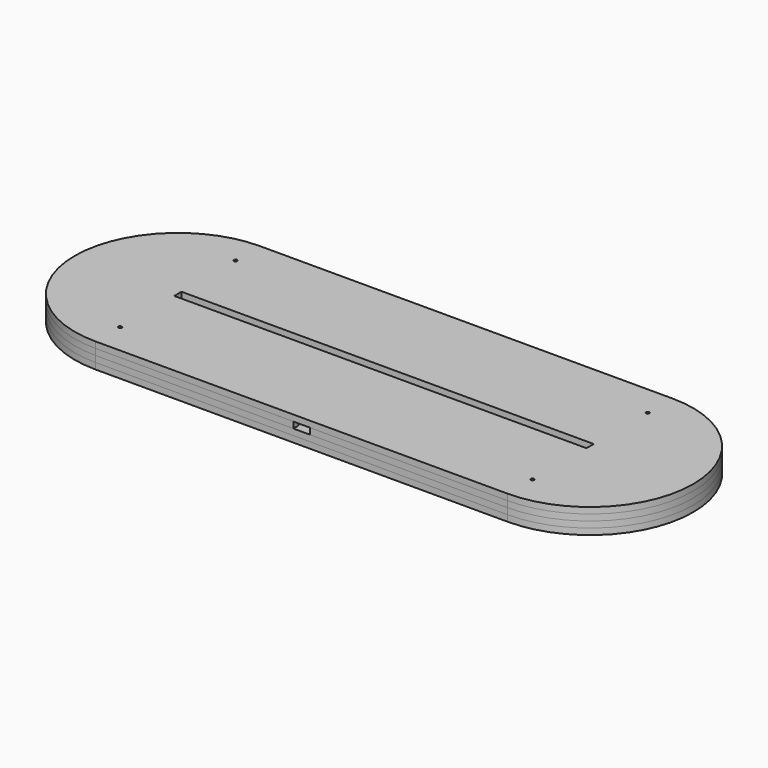
from build123d import *

# Parameters (mm, degrees)
BOX_BOTTOM_HALF_1_W     = 301.98633
BOX_BOTTOM_HALF_1_H     = 102
BOX_BOTTOM_HALF_1_DEPTH = 4
BOX_BOTTOM_HALF_0_W     = 301.98633
BOX_BOTTOM_HALF_0_H     = 102
BOX_BOTTOM_HALF_0_DEPTH = 7
PAD_DEPTH               = 3
PAD001_DEPTH            = 3
SKETCH002_W             = 209.08447
SKETCH002_H             = 4.18
PAD002_DEPTH            = 3
SKETCH003_W             = 26.3
SKETCH003_H             = 34.2
POCKET_DEPTH            = 3
SKETCH004_W             = 18
SKETCH004_H             = 25
POCKET001_DEPTH         = 3
SKETCH005_W             = 14
SKETCH005_H             = 5
POCKET002_DEPTH         = 6
SKETCH006_W             = 14
SKETCH006_H             = 3
POCKET003_DEPTH         = 3
SKETCH007_W             = 8
SKETCH007_H             = 3
POCKET004_DEPTH         = 3
SKETCH008_W             = 200
SKETCH008_H             = 4.4
PAD003_DEPTH            = 3
SKETCH009_R             = 0.8
POCKET005_DEPTH         = 12
BOX_BOTTOM_HALF_2_W     = 301.98633
BOX_BOTTOM_HALF_2_H     = 102
BOX_BOTTOM_HALF_2_DEPTH = 4


with BuildPart() as box_bottom_half_1_body:
    # box_bottom_half_1 → box_bottom_half_1 (new body)
    with BuildSketch(Plane(origin=(-150.993165, -51, -1), x_dir=(1, 0, 0), z_dir=(0, 0, 1))):
        with Locations((150.993165, 51)):
            Rectangle(BOX_BOTTOM_HALF_1_W, BOX_BOTTOM_HALF_1_H)
    extrude(amount=BOX_BOTTOM_HALF_1_DEPTH)


with BuildPart() as box_bottom_half_0_body:
    # box_bottom_half_0 → box_bottom_half_0 (new body)
    with BuildSketch(Plane(origin=(-150.993165, -51, -1), x_dir=(1, 0, 0), z_dir=(0, 0, 1))):
        with Locations((150.993165, 51)):
            Rectangle(BOX_BOTTOM_HALF_0_W, BOX_BOTTOM_HALF_0_H)
    extrude(amount=BOX_BOTTOM_HALF_0_DEPTH)


with BuildPart() as body:
    # Sketch → Pad (new body)
    with BuildSketch(Plane.XY):
        with BuildLine():
            ThreePointArc((-100, 50), (-150, 0), (-100, -50))
            Line((-100, -50), (100, -50))
            ThreePointArc((100, -50), (150, 0), (100, 50))
            Line((-100, 50), (100, 50))
        make_face()
    extrude(amount=PAD_DEPTH)

    # Sketch001 (on Face6 of Pad) → Pad001 (join)
    with BuildSketch(Plane.XY.offset(3)):
        with BuildLine():
            ThreePointArc((-100, 50), (-150, 0), (-100, -50))
            Line((-100, -50), (100, -50))
            ThreePointArc((100, -50), (150, 0), (100, 50))
            Line((-100, 50), (100, 50))
        make_face()
        with BuildLine():
            ThreePointArc((-100, 5), (-105, 0), (-100, -5))
            Line((-100, -5), (100, -5))
            ThreePointArc((100, -5), (105, 0), (100, 5))
            Line((-100, 5), (100, 5))
        make_face(mode=Mode.SUBTRACT)
    extrude(amount=PAD001_DEPTH)

    # Sketch002 (on Face9 of Pad001) → Pad002 (join)
    with BuildSketch(Plane.XY.offset(6)):
        with BuildLine():
            ThreePointArc((-100, 50), (-150, 0), (-100, -50))
            Line((-100, -50), (100, -50))
            ThreePointArc((100, -50), (150, 0), (100, 50))
            Line((-100, 50), (100, 50))
        make_face()
        Rectangle(SKETCH002_W, SKETCH002_H, mode=Mode.SUBTRACT)
    extrude(amount=PAD002_DEPTH)

    # Sketch003 (on Face13 of Pad002) → Pocket (cut)
    with BuildSketch(Plane.XY.offset(9)):
        with Locations((0, -29.9)):
            Rectangle(SKETCH003_W, SKETCH003_H)
    extrude(amount=-POCKET_DEPTH, mode=Mode.SUBTRACT)

    # Sketch004 (on Face27 of Pocket) → Pocket001 (cut)
    with BuildSketch(Plane.XY.offset(6)):
        with Locations((0, -25.3)):
            Rectangle(SKETCH004_W, SKETCH004_H)
    extrude(amount=-POCKET001_DEPTH, mode=Mode.SUBTRACT)

    # Sketch005 (on Face13 of Pocket001) → Pocket002 (cut)
    with BuildSketch(Plane.XY.offset(9)):
        with Locations((0, -10.3)):
            Rectangle(SKETCH005_W, SKETCH005_H)
    extrude(amount=-POCKET002_DEPTH, mode=Mode.SUBTRACT)

    # Sketch006 (on Face23 of Pocket002) → Pocket003 (cut)
    with BuildSketch(Plane.XZ.offset(7.8)):
        with Locations((0, 4.5)):
            Rectangle(SKETCH006_W, SKETCH006_H)
    extrude(amount=-POCKET003_DEPTH, mode=Mode.SUBTRACT)

    # Sketch007 (on Face13 of Pocket003) → Pocket004 (cut)
    with BuildSketch(Plane.XY.offset(9)):
        with Locations((0, -48.5)):
            Rectangle(SKETCH007_W, SKETCH007_H)
    extrude(amount=-POCKET004_DEPTH, mode=Mode.SUBTRACT)

    # Sketch008 (on Face15 of Pocket004) → Pad003 (join)
    with BuildSketch(Plane.XY.offset(9)):
        with BuildLine():
            ThreePointArc((-100, 50), (-150, 0), (-100, -50))
            Line((-100, -50), (100, -50))
            ThreePointArc((100, -50), (150, 0), (100, 50))
            Line((-100, 50), (100, 50))
        make_face()
        Rectangle(SKETCH008_W, SKETCH008_H, mode=Mode.SUBTRACT)
    extrude(amount=PAD003_DEPTH)

    # Sketch009 (on Face22 of Pad003) → Pocket005 (cut)
    with BuildSketch(Plane.XY.offset(12)):
        with Locations((-100, 35)):
            Circle(SKETCH009_R)
        with Locations((-100, -35)):
            Circle(SKETCH009_R)
        with Locations((100, 35)):
            Circle(SKETCH009_R)
        with Locations((100, -35)):
            Circle(SKETCH009_R)
    extrude(amount=-POCKET005_DEPTH, mode=Mode.SUBTRACT)


with BuildPart() as bottom_half_0_body:
    # bottom_half_0 base: copy of Body
    add(body.part)

    # bottom_half_0: intersect box_bottom_half_0 body
    add(box_bottom_half_0_body.part, mode=Mode.INTERSECT)


with BuildPart() as bottom_half_1_body:
    # bottom_half_1 base: copy of bottom_half_0 body
    add(bottom_half_0_body.part)

    # bottom_half_1: intersect box_bottom_half_1 body
    add(box_bottom_half_1_body.part, mode=Mode.INTERSECT)


with BuildPart() as top_half_1_body:
    # top_half_1 base: copy of bottom_half_0 body
    add(bottom_half_0_body.part)

    # top_half_1: cut box_bottom_half_1 body
    add(box_bottom_half_1_body.part, mode=Mode.SUBTRACT)


with BuildPart() as box_bottom_half_2_body:
    # box_bottom_half_2 → box_bottom_half_2 (new body)
    with BuildSketch(Plane(origin=(-150.993165, -51, 5), x_dir=(1, 0, 0), z_dir=(0, 0, 1))):
        with Locations((150.993165, 51)):
            Rectangle(BOX_BOTTOM_HALF_2_W, BOX_BOTTOM_HALF_2_H)
    extrude(amount=BOX_BOTTOM_HALF_2_DEPTH)


with BuildPart() as top_half_0_body:
    # top_half_0 base: copy of Body
    add(body.part)

    # top_half_0: cut box_bottom_half_0 body
    add(box_bottom_half_0_body.part, mode=Mode.SUBTRACT)


with BuildPart() as bottom_half_2_body:
    # bottom_half_2 base: copy of top_half_0 body
    add(top_half_0_body.part)

    # bottom_half_2: intersect box_bottom_half_2 body
    add(box_bottom_half_2_body.part, mode=Mode.INTERSECT)


with BuildPart() as top_half_2_body:
    # top_half_2 base: copy of top_half_0 body
    add(top_half_0_body.part)

    # top_half_2: cut box_bottom_half_2 body
    add(box_bottom_half_2_body.part, mode=Mode.SUBTRACT)


solid = Compound([bottom_half_1_body.part, top_half_1_body.part, bottom_half_2_body.part, top_half_2_body.part])
